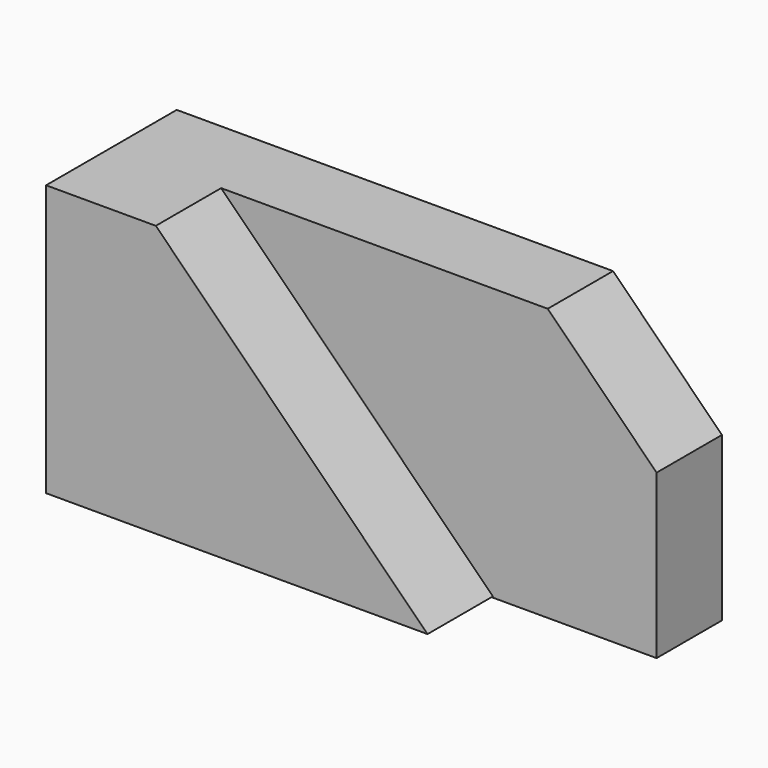
from build123d import *

# Parameters (mm, degrees)
F1_DEPTH = 19.05
F3_DEPTH = 38.1


with BuildPart() as f1:
    # F0 (on Front) → F1 (new body)
    with BuildSketch(Plane.XZ):
        Polygon((25.603199, 0), (-75.996801, 0), (-75.996801, -63.5), (51.003199, -63.5), (51.003199, -25.4), align=None)
    extrude(amount=F1_DEPTH)

    # F2 (on Front) → F3 (join)
    with BuildSketch(Plane.XZ):
        Polygon((-50.5968, 0), (-76.200001, 0), (-76.200001, -63.246004), (12.8016, -63.246004), align=None)
    extrude(amount=F3_DEPTH)


solid = f1.part
